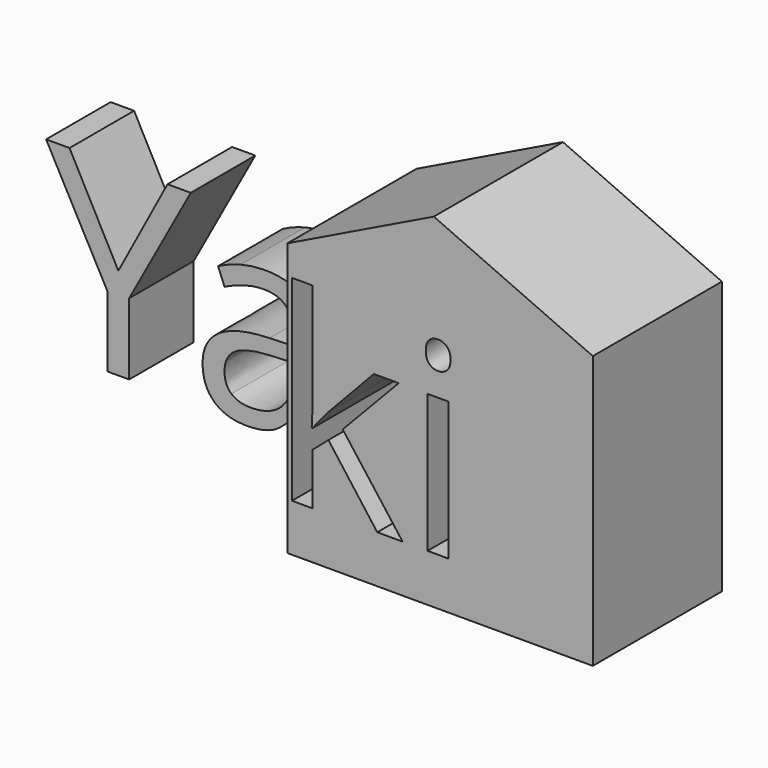
from build123d import *

# Parameters (mm, degrees)
F0_W     = 94.6031436324
F0_H     = 84.4948608428
F1_DEPTH = 50
F3_DEPTH = 25
F2_W     = 6.4890577899
F2_H     = 42.8227802129
F4_DEPTH = 50.001


with BuildPart() as f1:
    # F0 (on Front) → F1 (new body)
    with BuildSketch(Plane.XZ):
        with Locations((-6.5345913172, 11.6150705144)):
            Rectangle(F0_W, F0_H)
        Polygon((-8.4784915671, 75.8933722973), (-53.8361631334, 53.8625009358), (40.766980499, 53.8625009358), align=None)
    extrude(amount=F1_DEPTH)

    # F2 (on Front) → F4 (cut, through all)
    with BuildSketch(Plane.XZ):
        with Locations((-7.1794033004, 5.5112923191)):
            Rectangle(F2_W, F2_H)
        with BuildLine():
            add(Edge.make_bspline(
                [(-10.9740642624, 38.5254678379), (-10.9740642624, 40.7510021089), (-9.8800516292, 41.7887512352)],
                knots=[0, 0, 0, 1, 1, 1], degree=2))
            add(Edge.make_bspline(
                [(-9.8800516292, 35.2621844407), (-10.9740642624, 36.3374425716), (-10.9740642624, 38.5254678379)],
                knots=[0, 0, 0, 1, 1, 1], degree=2))
            add(Edge.make_bspline(
                [(-7.1356427951, 34.1869263098), (-8.786038996, 34.1869263098), (-9.8800516292, 35.2621844407)],
                knots=[0, 0, 0, 1, 1, 1], degree=2))
            add(Edge.make_bspline(
                [(-4.4412459671, 35.2621844407), (-5.5727676049, 34.1869263098), (-7.1356427951, 34.1869263098)],
                knots=[0, 0, 0, 1, 1, 1], degree=2))
            add(Edge.make_bspline(
                [(-3.3097243294, 38.5254678379), (-3.3097243294, 36.3374425716), (-4.4412459671, 35.2621844407)],
                knots=[0, 0, 0, 1, 1, 1], degree=2))
            add(Edge.make_bspline(
                [(-4.4412459671, 41.7699967329), (-3.3097243294, 40.7134931043), (-3.3097243294, 38.5254678379)],
                knots=[0, 0, 0, 1, 1, 1], degree=2))
            add(Edge.make_bspline(
                [(-7.1356427951, 42.8265003615), (-5.5727676049, 42.8265003615), (-4.4412459671, 41.7699967329)],
                knots=[0, 0, 0, 1, 1, 1], degree=2))
            add(Edge.make_bspline(
                [(-9.8800516292, 41.7887512352), (-8.786038996, 42.8265003615), (-7.1356427951, 42.8265003615)],
                knots=[0, 0, 0, 1, 1, 1], degree=2))
        make_face()
        with BuildLine():
            add(Edge.make_bspline(
                [(-46.0074745271, 6.0176638807), (-44.3320723231, 8.4057371714), (-40.8937469046, 12.2691646417)],
                knots=[0, 0, 0, 1, 1, 1], degree=2))
            Line((-46.0074745271, 6.0176638807), (-46.3200495651, 6.0176638807))
            add(Edge.make_bspline(
                [(-46.0074745271, 12.6567576889), (-46.0074745271, 10.5187444286), (-46.3200495651, 6.0176638807)],
                knots=[0, 0, 0, 1, 1, 1], degree=2))
            Line((-46.0074745271, 12.6567576889), (-46.0074745271, 44.9019986142))
            Line((-46.0074745271, 44.9019986142), (-52.4215143079, 44.9019986142))
            Line((-52.4215143079, 44.9019986142), (-52.4215143079, -15.9000977874))
            Line((-52.4215143079, -15.9000977874), (-46.0074745271, -15.9000977874))
            Line((-46.0074745271, -15.9000977874), (-46.0074745271, 0.1162471623))
            Line((-46.0074745271, 0.1162471623), (-41.1313039335, 4.3422616768))
            Line((-41.1313039335, 4.3422616768), (-26.0026720918, -15.9000977874))
            Line((-26.0026720918, -15.9000977874), (-18.150787136, -15.9000977874))
            Line((-18.150787136, -15.9000977874), (-36.7177443962, 8.6808032049))
            Line((-36.7177443962, 8.6808032049), (-19.3635782836, 26.9226824255))
            Line((-19.3635782836, 26.9226824255), (-27.0654272212, 26.9226824255))
            Line((-27.0654272212, 26.9226824255), (-40.8937469046, 12.2691646417))
        make_face()
    extrude(amount=F4_DEPTH, mode=Mode.SUBTRACT)


with BuildPart() as f3:
    # F2 (on Front) → F3 (new body)
    with BuildSketch(Plane.XZ):
        Polygon((-110.985573437, 41.2261161667), (-126.2142292908, 12.6567576889), (-141.3428611324, 41.2261161667), (-148.6071050167, 41.2261161667), (-129.5775367002, 5.9426458716), (-129.5775367002, -15.9000977874), (-122.8634248829, -15.9000977874), (-122.8634248829, 6.2552209096), (-103.7963475618, 41.2261161667), align=None)
        with BuildLine():
            Line((-71.8761846761, -9.7986330446), (-70.5883755193, -15.9000977874))
            Line((-70.5883755193, -15.9000977874), (-65.7747199334, -15.9000977874))
            Line((-65.7747199334, -15.9000977874), (-65.7747199334, 13.3319197711))
            add(Edge.make_bspline(
                [(-69.4693568831, 24.2282855975), (-65.7747199334, 20.8337206843), (-65.7747199334, 13.3319197711)],
                knots=[0, 0, 0, 1, 1, 1], degree=2))
            add(Edge.make_bspline(
                [(-80.8158307643, 27.6228505108), (-73.1639938329, 27.6228505108), (-69.4693568831, 24.2282855975)],
                knots=[0, 0, 0, 1, 1, 1], degree=2))
            add(Edge.make_bspline(
                [(-88.3863981859, 26.647616392), (-84.616743227, 27.6228505108), (-80.8158307643, 27.6228505108)],
                knots=[0, 0, 0, 1, 1, 1], degree=2))
            add(Edge.make_bspline(
                [(-95.3193125299, 23.9594710648), (-92.1560531448, 25.6723822733), (-88.3863981859, 26.647616392)],
                knots=[0, 0, 0, 1, 1, 1], degree=2))
            Line((-95.3193125299, 23.9594710648), (-93.3188322864, 18.9957794606))
            add(Edge.make_bspline(
                [(-81.2159268131, 22.2715658593), (-86.5672114645, 22.2715658593), (-93.3188322864, 18.9957794606)],
                knots=[0, 0, 0, 1, 1, 1], degree=2))
            add(Edge.make_bspline(
                [(-74.2767609683, 19.8709895671), (-76.4397802316, 22.2715658593), (-81.2159268131, 22.2715658593)],
                knots=[0, 0, 0, 1, 1, 1], degree=2))
            add(Edge.make_bspline(
                [(-72.113741705, 12.4317036615), (-72.113741705, 17.4704132749), (-74.2767609683, 19.8709895671)],
                knots=[0, 0, 0, 1, 1, 1], degree=2))
            Line((-72.113741705, 12.4317036615), (-72.113741705, 9.7685643373))
            Line((-72.113741705, 9.7685643373), (-79.3779855893, 9.5310073084))
            add(Edge.make_bspline(
                [(-100.1204651143, -4.059755346), (-100.1204651143, 8.9058572323), (-79.3779855893, 9.5310073084)],
                knots=[0, 0, 0, 1, 1, 1], degree=2))
            add(Edge.make_bspline(
                [(-96.5070976745, -13.399497483), (-100.1204651143, -10.1112080827), (-100.1204651143, -4.059755346)],
                knots=[0, 0, 0, 1, 1, 1], degree=2))
            add(Edge.make_bspline(
                [(-86.5297024599, -16.6877868833), (-92.8937302346, -16.6877868833), (-96.5070976745, -13.399497483)],
                knots=[0, 0, 0, 1, 1, 1], degree=2))
            add(Edge.make_bspline(
                [(-78.5715419911, -15.256193209), (-81.7535558785, -16.6877868833), (-86.5297024599, -16.6877868833)],
                knots=[0, 0, 0, 1, 1, 1], degree=2))
            add(Edge.make_bspline(
                [(-72.1887597142, -9.7986330446), (-75.3895281038, -13.8245995347), (-78.5715419911, -15.256193209)],
                knots=[0, 0, 0, 1, 1, 1], degree=2))
            Line((-72.1887597142, -9.7986330446), (-71.8761846761, -9.7986330446))
        make_face()
        with BuildLine():
            add(Edge.make_bspline(
                [(-85.2418933031, -11.3239992303), (-79.177937565, -11.3239992303), (-75.7208576441, -8.0044523262)],
                knots=[0, 0, 0, 1, 1, 1], degree=2))
            add(Edge.make_bspline(
                [(-91.1933220276, -9.4923095073), (-89.0678117689, -11.3239992303), (-85.2418933031, -11.3239992303)],
                knots=[0, 0, 0, 1, 1, 1], degree=2))
            add(Edge.make_bspline(
                [(-93.3188322864, -4.1347733552), (-93.3188322864, -7.6606197844), (-91.1933220276, -9.4923095073)],
                knots=[0, 0, 0, 1, 1, 1], degree=2))
            add(Edge.make_bspline(
                [(-89.9055128709, 2.4855659507), (-93.3188322864, 0.3538041912), (-93.3188322864, -4.1347733552)],
                knots=[0, 0, 0, 1, 1, 1], degree=2))
            add(Edge.make_bspline(
                [(-78.7528355132, 4.8923937437), (-86.4921934553, 4.6173277102), (-89.9055128709, 2.4855659507)],
                knots=[0, 0, 0, 1, 1, 1], degree=2))
            Line((-78.7528355132, 4.8923937437), (-72.2637777233, 5.1549567757))
            Line((-72.2637777233, 5.1549567757), (-72.2637777233, 1.2915293054))
            add(Edge.make_bspline(
                [(-75.7208576441, -8.0044523262), (-72.2637777233, -4.6849054221), (-72.2637777233, 1.2915293054)],
                knots=[0, 0, 0, 1, 1, 1], degree=2))
        make_face(mode=Mode.SUBTRACT)
    extrude(amount=F3_DEPTH)


solid = Compound([f1.part, f3.part])
